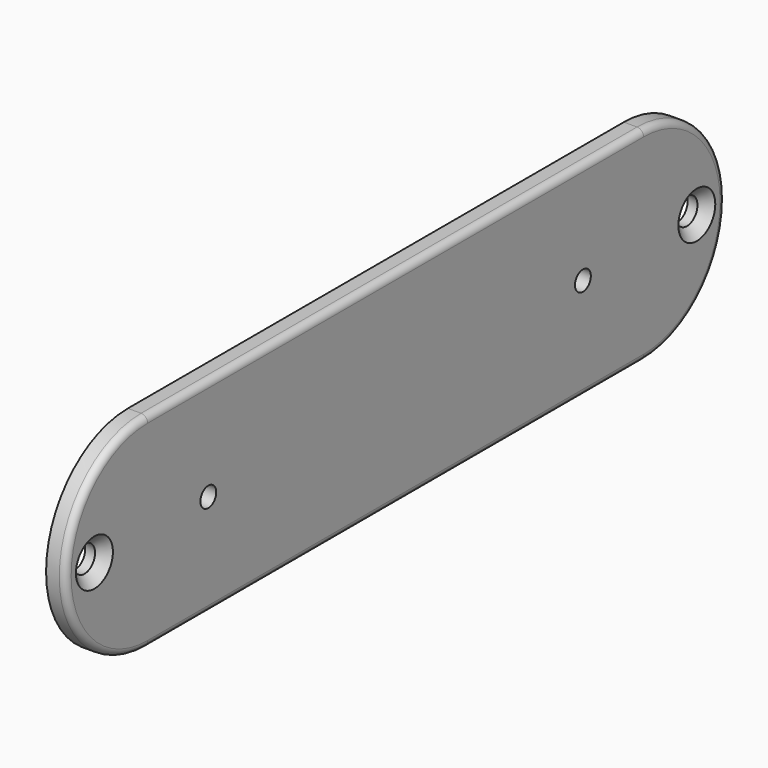
from build123d import *

# Parameters (mm, degrees)
F0_R     = 2
F0_R_2   = 1.5
F1_DEPTH = 1.5
F2_SIZE  = 1.5
F3_R     = 1


with BuildPart() as f1:
    # F0 (on Right) → F1 (new body, symmetric)
    with BuildSketch(Plane.YZ):
        with BuildLine():
            Line((47, 15.5), (0, 15.5))
            Line((0, 15.5), (-47, 15.5))
            ThreePointArc((-47, 15.5), (-62.5, 0), (-47, -15.5))
            Line((-47, -15.5), (0, -15.5))
            Line((0, -15.5), (47, -15.5))
            ThreePointArc((47, -15.5), (62.5, 0), (47, 15.5))
        make_face()
        with Locations((-57.09, 0)):
            Circle(F0_R, mode=Mode.SUBTRACT)
        with Locations((-35.5, 0)):
            Circle(F0_R_2, mode=Mode.SUBTRACT)
        with Locations((35.5, 0)):
            Circle(F0_R_2, mode=Mode.SUBTRACT)
        with Locations((57.09, 0)):
            Circle(F0_R, mode=Mode.SUBTRACT)
    extrude(amount=F1_DEPTH, both=True)

    # F2
    f2_edges = [f1.edges().sort_by_distance(p)[0] for p in [
        (1.5, -59.09, 0),
        (1.5, 55.09, 0),
    ]]
    chamfer(f2_edges, length=F2_SIZE)

    # F3
    f3_edges = [f1.edges().sort_by_distance(p)[0] for p in [
        (1.5, 0, -15.5),
    ]]
    fillet(f3_edges, radius=F3_R)


solid = f1.part
